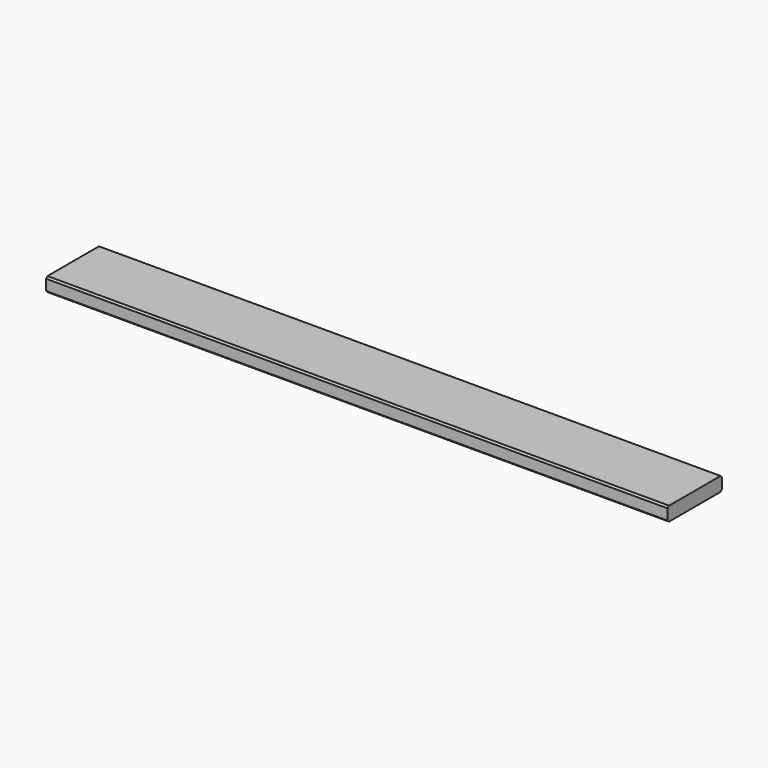
from build123d import *

# Parameters (mm, degrees)
F0_W     = 120
F0_H     = 25
F1_DEPTH = 1100
F2_SIZE  = 3


with BuildPart() as f1:
    # F0 (on Right) → F1 (new body)
    with BuildSketch(Plane.YZ):
        with Locations((-60, 12.5)):
            Rectangle(F0_W, F0_H)
    extrude(amount=F1_DEPTH)

    # F2
    f2_edges = [f1.edges().sort_by_distance(p)[0] for p in [
        (550, 0, 25),
        (550, -120, 25),
        (550, -120, 0),
        (550, 0, 0),
    ]]
    chamfer(f2_edges, length=F2_SIZE)


solid = f1.part
